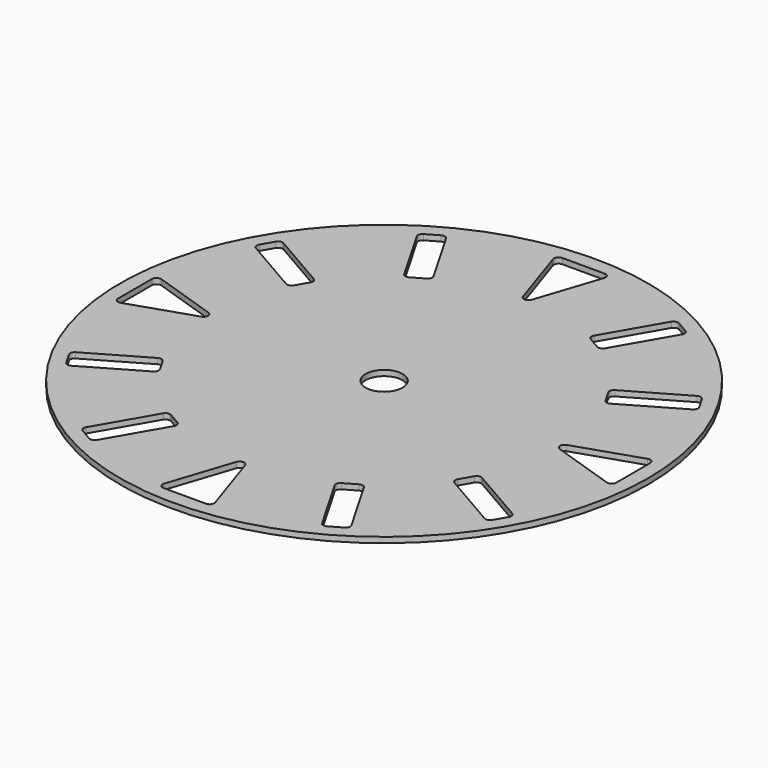
from build123d import *

# Parameters (mm, degrees)
SKETCH031_R        = 14.25
SKETCH031_R_2      = 1
PAD007_DEPTH       = 0.3
POCKET_DEPTH       = 80.913406
POLARPATTERN_COUNT = 4


with BuildPart() as part:
    # Sketch031 → Pad007 (new body)
    with BuildSketch(Plane.XY.offset(0.7)):
        Circle(SKETCH031_R)
        Circle(SKETCH031_R_2, mode=Mode.SUBTRACT)
    extrude(amount=PAD007_DEPTH)

    # Sketch → Pocket (cut, through all)
    with BuildSketch(Plane.XY.offset(1)):
        with BuildLine():
            Line((-1.141945, 13.451616), (1.141945, 13.451616))
            ThreePointArc((1.379292, 13.123091), (1.344591, 13.34802), (1.141945, 13.451616))
            Line((1.379292, 13.123091), (0.237348, 9.671475))
            ThreePointArc((-0.237348, 9.671475), (0, 9.5), (0.237348, 9.671475))
            Line((-0.237348, 9.671475), (-1.379292, 13.123091))
            ThreePointArc((-1.141945, 13.451616), (-1.344591, 13.34802), (-1.379292, 13.123091))
        make_face()
        with BuildLine():
            Line((4.333734, 8.756248), (6.081129, 11.782825))
            ThreePointArc((6.422636, 11.874332), (6.232931, 11.899307), (6.081129, 11.782825))
            Line((6.422636, 11.874332), (7.072155, 11.499332))
            ThreePointArc((7.163661, 11.157825), (7.188636, 11.34753), (7.072155, 11.499332))
            Line((7.163661, 11.157825), (5.416266, 8.131248))
            ThreePointArc((5.07476, 8.039741), (5.264464, 8.014766), (5.416266, 8.131248))
            Line((5.07476, 8.039741), (4.42524, 8.414741))
            ThreePointArc((4.333734, 8.756248), (4.308759, 8.566543), (4.42524, 8.414741))
        make_face()
        with BuildLine():
            Line((8.131248, 5.416266), (11.157825, 7.163661))
            ThreePointArc((11.499332, 7.072155), (11.34753, 7.188636), (11.157825, 7.163661))
            Line((11.499332, 7.072155), (11.874332, 6.422636))
            ThreePointArc((11.782825, 6.081129), (11.899307, 6.232931), (11.874332, 6.422636))
            Line((11.782825, 6.081129), (8.756248, 4.333734))
            ThreePointArc((8.414741, 4.42524), (8.566543, 4.308759), (8.756248, 4.333734))
            Line((8.414741, 4.42524), (8.039741, 5.07476))
            ThreePointArc((8.131248, 5.416266), (8.014766, 5.264464), (8.039741, 5.07476))
        make_face()
    pocket = extrude(amount=-POCKET_DEPTH, mode=Mode.SUBTRACT)

    # PolarPattern: Pocket ×4 about axis
    polarpattern_axis = Axis((0, 0, 1), (0, 0, 1))
    for i in range(1, POLARPATTERN_COUNT):
        add(pocket.rotate(polarpattern_axis, i * 360 / POLARPATTERN_COUNT), mode=Mode.SUBTRACT)


solid = part.part
